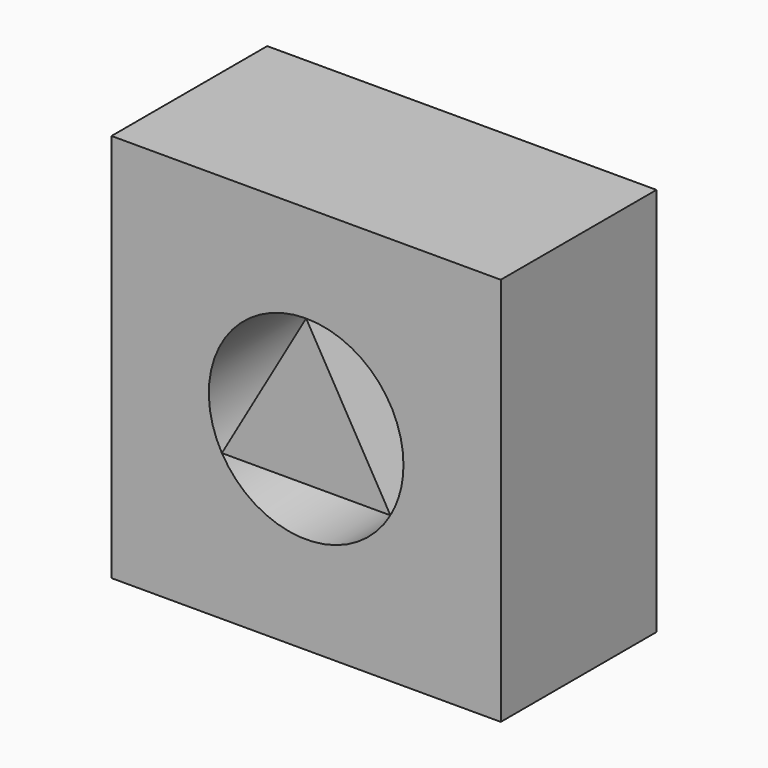
from build123d import *

# Parameters (mm, degrees)
F0_W     = 50.8
F0_H     = 50.8
F1_DEPTH = 25.4


with BuildPart() as f1:
    # F0 (on Front) → F1 (new body)
    with BuildSketch(Plane.XZ):
        with Locations((25.4, 25.4)):
            Rectangle(F0_W, F0_H)
        with BuildLine():
            ThreePointArc((14.401477, 19.05), (14.401477, 31.75), (25.4, 38.1))
            ThreePointArc((25.4, 38.1), (34.380256, 34.380256), (38.1, 25.4))
            ThreePointArc((38.1, 25.4), (37.667258, 22.112998), (36.398523, 19.05))
            ThreePointArc((36.398523, 19.05), (25.4, 12.7), (14.401477, 19.05))
        make_face(mode=Mode.SUBTRACT)
        Polygon((36.398523, 19.05), (25.4, 38.1), (14.401477, 19.05), align=None)
    extrude(amount=F1_DEPTH)


solid = f1.part
